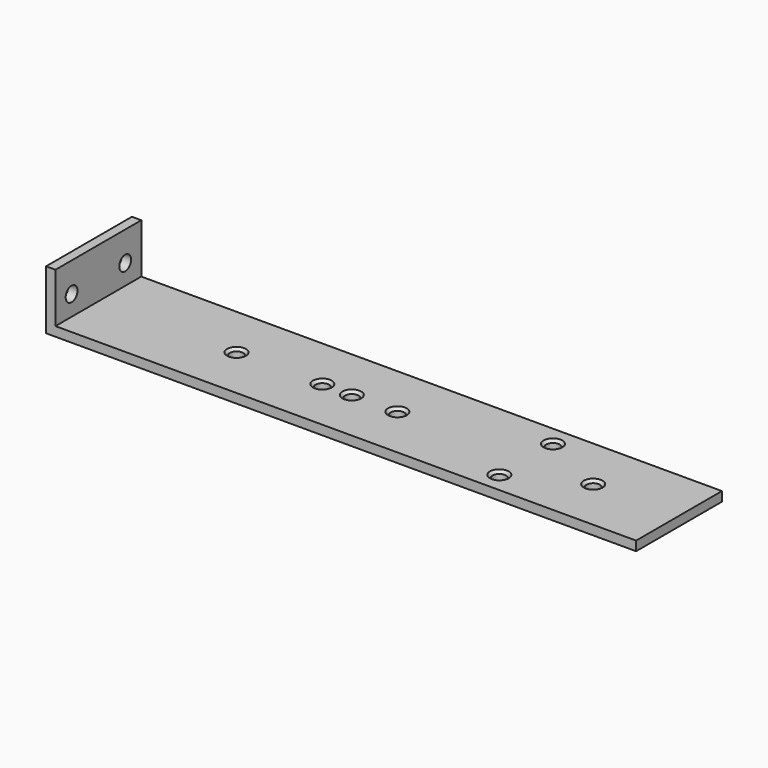
from build123d import *

# Parameters (mm, degrees)
SKETCH_W        = 220
SKETCH_H        = 40
PAD_DEPTH       = 3.5
SKETCH001_R     = 2.5
POCKET_DEPTH    = 3.501
CHAMFER_SIZE    = 1
SKETCH002_W     = 3.5
SKETCH002_H     = 40
PAD001_DEPTH    = 18.5
SKETCH003_R     = 2.75
POCKET001_DEPTH = 220.001


with BuildPart() as part:
    # Sketch → Pad (new body)
    with BuildSketch(Plane.XY):
        with Locations((110, 20)):
            Rectangle(SKETCH_W, SKETCH_H)
    extrude(amount=PAD_DEPTH)

    # Sketch001 (on Face6 of Pad) → Pocket (cut, through all)
    with BuildSketch(Plane.XY.offset(3.5)):
        with Locations((55, 20)):
            Circle(SKETCH001_R)
        with Locations((87, 20)):
            Circle(SKETCH001_R)
        with Locations((98, 20)):
            Circle(SKETCH001_R)
        with Locations((115, 20)):
            Circle(SKETCH001_R)
        with Locations((188, 20)):
            Circle(SKETCH001_R)
        with Locations((163, 32.5)):
            Circle(SKETCH001_R)
        with Locations((163, 7.5)):
            Circle(SKETCH001_R)
    extrude(amount=-POCKET_DEPTH, mode=Mode.SUBTRACT)

    # Chamfer
    chamfer_edges = [part.edges().sort_by_distance(p)[0] for p in [
        (52.5, 20, 3.5),
        (84.5, 20, 3.5),
        (95.5, 20, 3.5),
        (112.5, 20, 3.5),
        (160.5, 32.5, 3.5),
        (160.5, 7.5, 3.5),
        (185.5, 20, 3.5),
    ]]
    chamfer(chamfer_edges, length=CHAMFER_SIZE)

    # Sketch002 (on Face1 of Chamfer) → Pad001 (join)
    with BuildSketch(Plane.XY.offset(3.5)):
        with Locations((1.75, 20)):
            Rectangle(SKETCH002_W, SKETCH002_H)
    extrude(amount=PAD001_DEPTH)

    # Sketch003 → Pocket001 (cut, through all)
    with BuildSketch(Plane(origin=(0, 0, 0), x_dir=(0, -1, 0), z_dir=(-1, 0, 0))):
        with Locations((-32.5, 11)):
            Circle(SKETCH003_R)
        with Locations((-7.5, 11)):
            Circle(SKETCH003_R)
    extrude(amount=-POCKET001_DEPTH, mode=Mode.SUBTRACT)


solid = part.part
